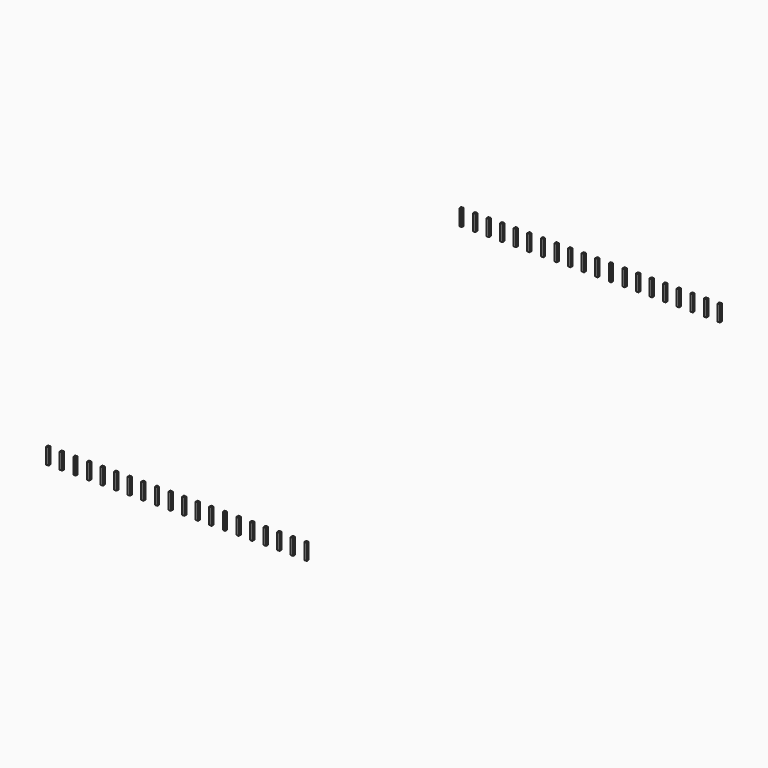
from build123d import *

# Parameters (mm, degrees)
BOX002_W      = 0.46
BOX002_H      = 0.46
BOX002_DEPTH  = 3
ARRAY_X_COUNT = 20
ARRAY_X_PITCH = 2.54
ARRAY_Y_COUNT = 2
ARRAY_Y_PITCH = 96.52


with BuildPart() as part:
    # Box002 → Box002 (new body)
    with BuildSketch(Plane(origin=(-0.23, -0.23, -2), x_dir=(1, 0, 0), z_dir=(0, 0, 1))):
        with Locations((0.23, 0.23)):
            Rectangle(BOX002_W, BOX002_H)
    extrude(amount=BOX002_DEPTH)

    # Array X: part ×20


with BuildPart() as part_1:
    add(part.part)
    with Locations(*[(i * ARRAY_X_PITCH, 0, 0) for i in range(1, ARRAY_X_COUNT)]):
        add(part.part)

    # Array Y: part ×2


with BuildPart() as part_2:
    add(part_1.part)
    with Locations(*[(0, -i * ARRAY_Y_PITCH, 0) for i in range(1, ARRAY_Y_COUNT)]):
        add(part_1.part)


solid = part_2.part
